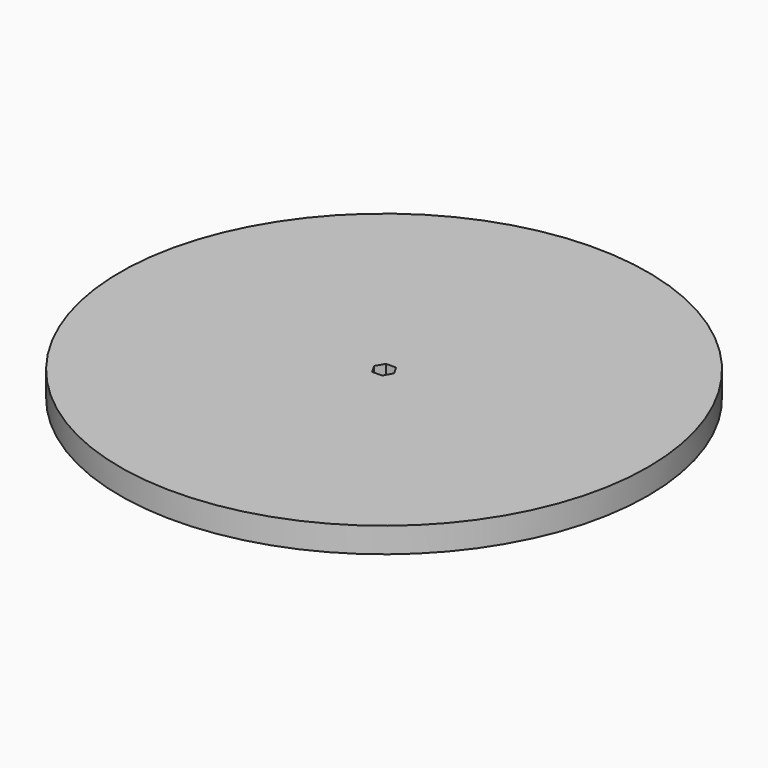
from build123d import *

# Parameters (mm, degrees)
CYLINDER006_R     = 200
CYLINDER006_DEPTH = 19.05
POCKET045_DEPTH   = 8
SKETCH106_R       = 4.2
HOLE037_DEPTH     = 11.051


with BuildPart() as part:
    # Cylinder006 → Cylinder006 (join)
    with BuildSketch(Plane.XY.offset(-19.05)):
        Circle(CYLINDER006_R)
    extrude(amount=CYLINDER006_DEPTH)

    # Sketch105 (on Face3 of Cylinder006) → Pocket045 (cut)
    with BuildSketch(Plane.XY):
        Polygon((3.810512, -6.6), (7.621024, 0), (3.810512, 6.6), (-3.810512, 6.6), (-7.621024, 0), (-3.810512, -6.6), align=None)
    extrude(amount=-POCKET045_DEPTH, mode=Mode.SUBTRACT)

    # Sketch106 (on Face10 of Pocket045) → Hole037 (cut, through all)
    with BuildSketch(Plane.XY.offset(-8)):
        Circle(SKETCH106_R)
    extrude(amount=-HOLE037_DEPTH, mode=Mode.SUBTRACT)


with BuildPart() as part_1:
    # Body022020 placement: moved
    add(part.part.moved(Location((0, 0, -147))))


solid = part_1.part
